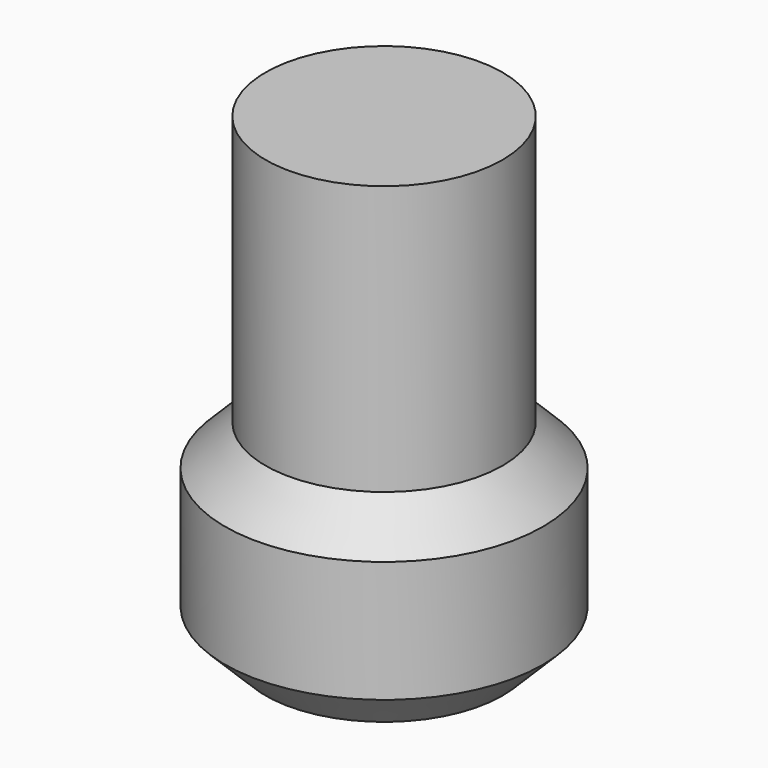
from build123d import *

# Parameters (mm, degrees)
F1_DEPTH = 25.4
F2_SIZE  = 5.08
F3_DEPTH = 33.782


with BuildPart() as f1:
    # F0 (on Top) → F1 (new body)
    with BuildSketch(Plane.XY):
        with BuildLine():
            ThreePointArc((-13.5880994109, 14.6109584599), (-7.9685359746, -18.2925937783), (19.9528582593, 0))
            ThreePointArc((19.9528582593, 0), (7.9685359746, 18.2925937783), (-13.5880994109, 14.6109584599))
        make_face()
    extrude(amount=F1_DEPTH)

    # F2
    f2_edges = [f1.edges().sort_by_distance(p)[0] for p in [
        (-19.952858, 0, 0),
        (19.952858, 0, 12.7),
        (-19.952858, 0, 25.4),
    ]]
    chamfer(f2_edges, length=F2_SIZE)

    # F3 (add): a face of the model
    f3_faces = [f1.faces().sort_by_distance(p)[0] for p in [
        (0, 0, 25.4),
    ]]
    extrude(f3_faces, amount=F3_DEPTH)


solid = f1.part
